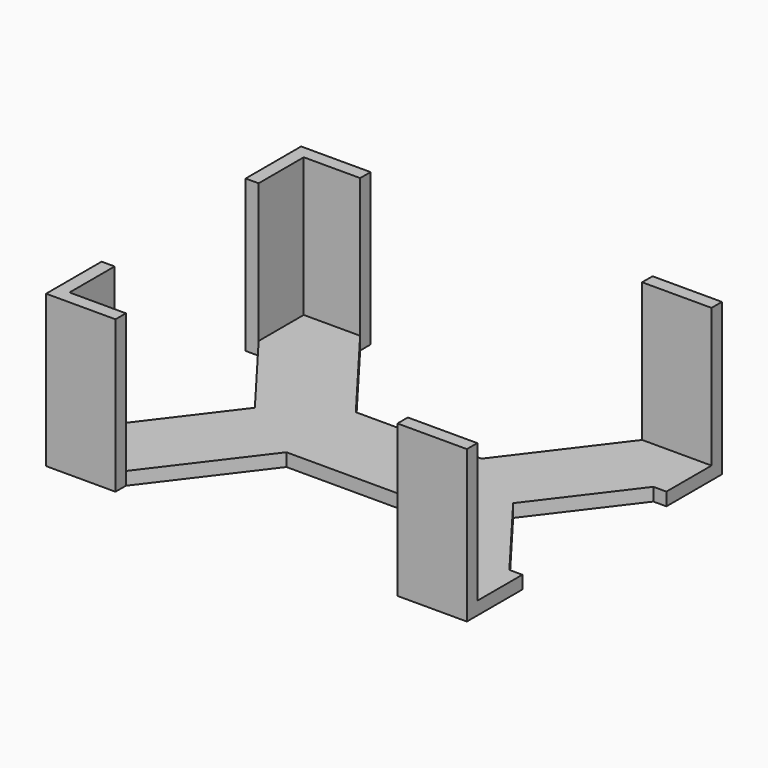
from build123d import *

# Parameters (mm, degrees)
F0_W     = 13
F0_H     = 13
F0_H_2   = 7
F0_H_3   = 6
F0_W_2   = 3
F1_DEPTH = 3
F0_H_4   = 3
F2_DEPTH = 35


with BuildPart() as f1:
    # F0 (on Top) → F1 (new body)
    with BuildSketch(Plane.XY):
        with Locations((-39, 27.25)):
            Rectangle(F0_W, F0_H)
        Polygon((-27.5, 10), (-14.5, 10), (-32.5, 33.75), (-32.5, 20.75), (-45.5, 20.75), (-29.7736842105, 0), (-27.5, 3), align=None)
        with Locations((-21, 6.5)):
            Rectangle(F0_W, F0_H_2)
        Polygon((-27.5, -3), (-27.5, 3), (-29.7736842105, 0), align=None)
        with Locations((-21, 0)):
            Rectangle(F0_W, F0_H_3)
        with Locations((-21, -6.5)):
            Rectangle(F0_W, F0_H_2)
        Polygon((-27.5, -10), (-27.5, -3), (-29.7736842105, 0), (-45.5, -20.75), (-32.5, -20.75), (-32.5, -33.75), (-14.5, -10), align=None)
        with Locations((-39, -27.25)):
            Rectangle(F0_W, F0_H)
        Polygon((14.5, 3), (14.5, 10), (-14.5, 10), (-14.5, 3), (-14.5, -3), (-14.5, -10), (14.5, -10), (14.5, -3), align=None)
        with Locations((21, 6.5)):
            Rectangle(F0_W, F0_H_2)
        with Locations((21, 0)):
            Rectangle(F0_W, F0_H_3)
        with Locations((21, -6.5)):
            Rectangle(F0_W, F0_H_2)
        Polygon((29.7736842105, 0), (27.5, 3), (27.5, -3), align=None)
        Polygon((29.7736842105, 0), (27.5, -3), (27.5, -10), (14.5, -10), (32.5, -33.75), (32.5, -20.75), (45.5, -20.75), align=None)
        Polygon((14.5, 10), (27.5, 10), (27.5, 3), (29.7736842105, 0), (45.5, 20.75), (32.5, 20.75), (32.5, 33.75), align=None)
        with Locations((39, -27.25)):
            Rectangle(F0_W, F0_H)
        with Locations((47, -27.25)):
            Rectangle(F0_W_2, F0_H)
        with Locations((39, 27.25)):
            Rectangle(F0_W, F0_H)
        with Locations((47, 27.25)):
            Rectangle(F0_W_2, F0_H)
    extrude(amount=F1_DEPTH)

    # F0 (on Top) → F2 (join)
    with BuildSketch(Plane.XY):
        with Locations((-47, 27.25)):
            Rectangle(F0_W_2, F0_H)
        with Locations((-47, 35.25)):
            Rectangle(F0_W_2, F0_H_4)
        with Locations((-39, 35.25)):
            Rectangle(F0_W, F0_H_4)
        with Locations((-47, -27.25)):
            Rectangle(F0_W_2, F0_H)
        with Locations((-47, -35.25)):
            Rectangle(F0_W_2, F0_H_4)
        with Locations((-39, -35.25)):
            Rectangle(F0_W, F0_H_4)
        with Locations((39, -35.25)):
            Rectangle(F0_W, F0_H_4)
        with Locations((47, -35.25)):
            Rectangle(F0_W_2, F0_H_4)
        with Locations((39, 35.25)):
            Rectangle(F0_W, F0_H_4)
        with Locations((47, 35.25)):
            Rectangle(F0_W_2, F0_H_4)
    extrude(amount=F2_DEPTH)


solid = f1.part
